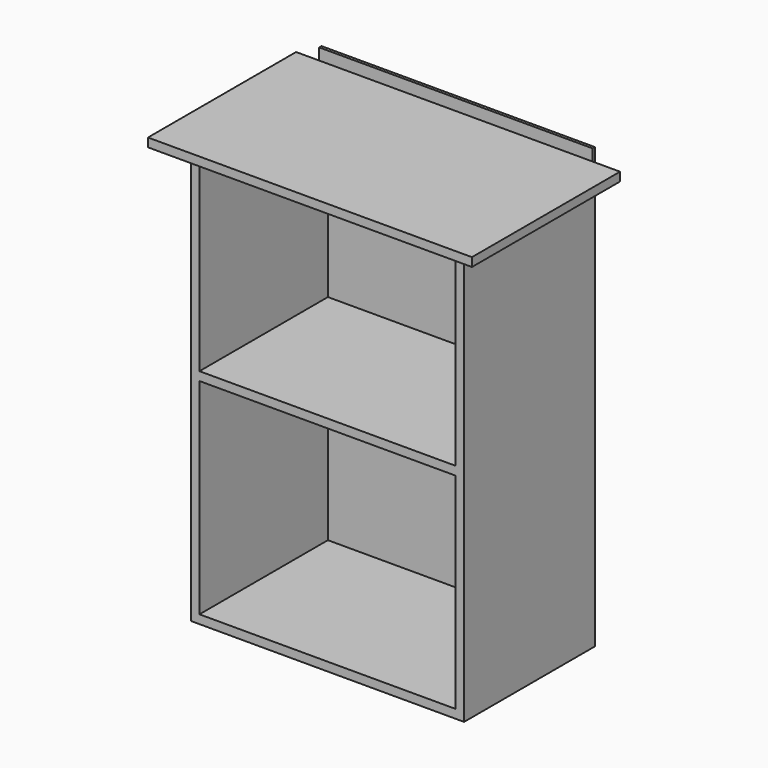
from build123d import *

# Parameters (mm, degrees)
F0_W     = 600
F0_H     = 939.8
F1_DEPTH = 177.8
F2_W     = 561.9
F2_H     = 431.8
F2_H_2   = 450.85
F3_DEPTH = 355.601
F4_W     = 600
F4_H     = 965.2
F5_DEPTH = 3.175
F7_DEPTH = 19.05


with BuildPart() as f1:
    # F0 (on Front) → F1 (new body, symmetric)
    with BuildSketch(Plane.XZ):
        Rectangle(F0_W, F0_H)
    extrude(amount=F1_DEPTH, both=True)

    # F2 (on face) → F3 (cut, through all)
    with BuildSketch(Plane.XZ.offset(177.8)):
        with Locations((0, 234.95)):
            Rectangle(F2_W, F2_H)
        with Locations((0, -225.425)):
            Rectangle(F2_W, F2_H_2)
    extrude(amount=-F3_DEPTH, mode=Mode.SUBTRACT)

    # F4 (on face) → F5 (join, symmetric)
    with BuildSketch(Plane(origin=(0, 177.8, 0), x_dir=(-1, 0, 0), z_dir=(0, 1, 0))):
        with Locations((0, 12.7)):
            Rectangle(F4_W, F4_H)
    extrude(amount=F5_DEPTH, both=True)

    # F6 (on face) → F7 (join)
    with BuildSketch(Plane.XY.offset(469.9)):
        Polygon((-350.8, 174.625), (-350.8, -231.775), (360.4, -231.775), (360.4, 174.625), (300, 174.625), (300, -177.8), (-300, -177.8), (-300, 174.625), align=None)
    extrude(amount=-F7_DEPTH)


solid = f1.part
